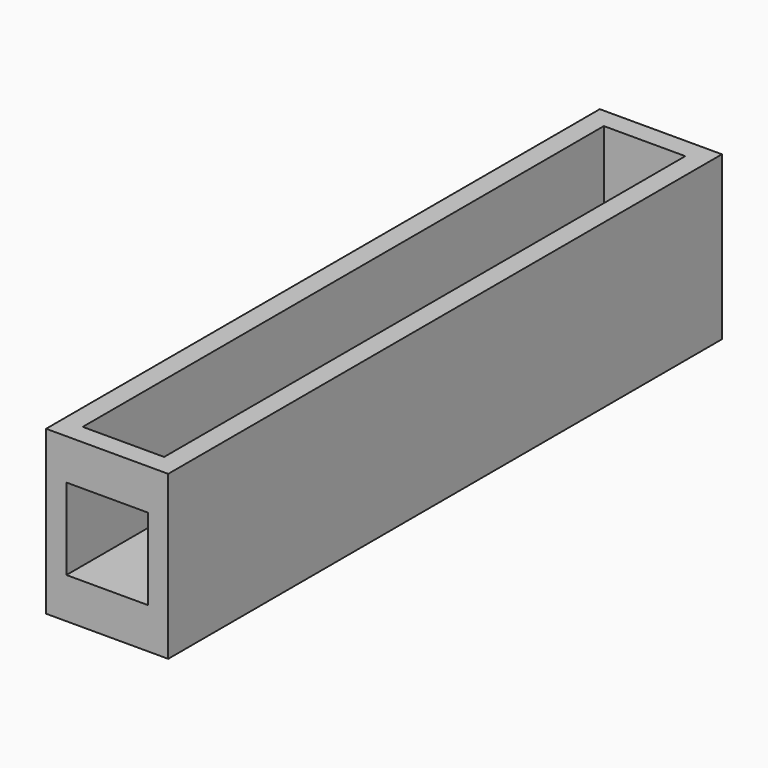
from build123d import *

# Parameters (mm, degrees)
F0_W     = 19.05
F0_H     = 107.95
F0_W_2   = 12.7
F0_H_2   = 101.6
F1_DEPTH = 25.4
F2_DEPTH = 6.35
F3_W     = 12.7
F3_H     = 12.7
F4_DEPTH = 25.4


with BuildPart() as f1:
    # F0 (on Top) → F1 (new body)
    with BuildSketch(Plane.XY):
        with Locations((-21.172236, -17.613889)):
            Rectangle(F0_W, F0_H)
        with Locations((-21.172236, -17.613889)):
            Rectangle(F0_W_2, F0_H_2, mode=Mode.SUBTRACT)
    extrude(amount=F1_DEPTH)

    # F0 (on Top) → F2 (join)
    with BuildSketch(Plane.XY):
        with Locations((-21.172236, -17.613889)):
            Rectangle(F0_W_2, F0_H_2)
    extrude(amount=F2_DEPTH)

    # F3 (on face) → F4 (cut)
    with BuildSketch(Plane.XZ.offset(71.588889)):
        with Locations((-21.172236, 12.7)):
            Rectangle(F3_W, F3_H)
    extrude(amount=-F4_DEPTH, mode=Mode.SUBTRACT)


solid = f1.part
